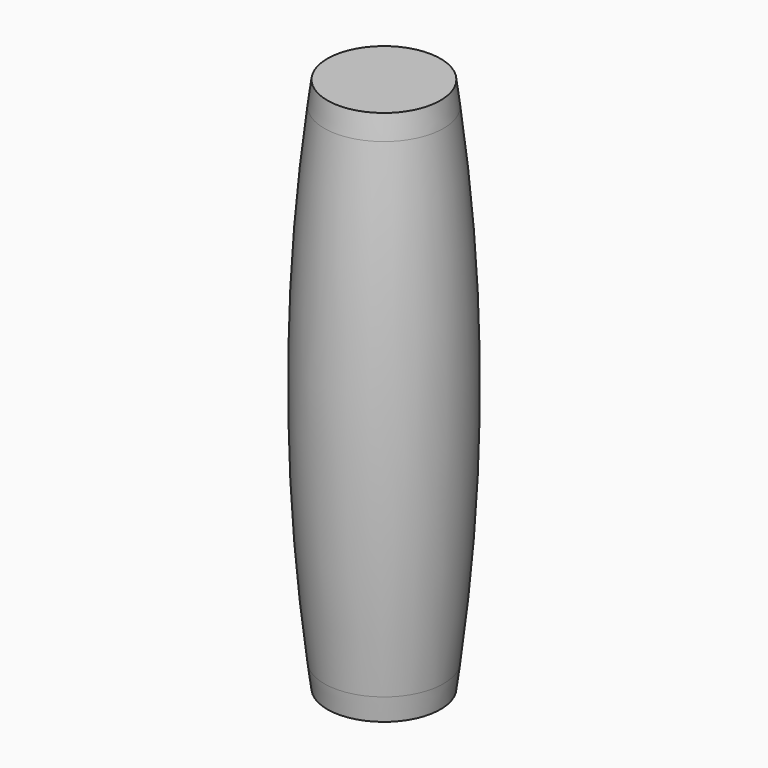
from build123d import *


with BuildPart() as f1:
    # F0 (on Front) → F1 (revolve)
    with BuildSketch(Plane.XZ):
        with BuildLine():
            Line((-6.8, 41.039646), (-10.020737, 41.039646))
            ThreePointArc((-10.020737, 41.039646), (-12.582579, 0), (-10.020737, -41.039646))
            Line((-10.020737, -41.039646), (-6.8, -41.039646))
            Line((-6.8, -41.039646), (-6.8, -31.647503))
            Line((-6.8, -31.647503), (-9.890868, -26.114616))
            ThreePointArc((-9.890868, -26.114616), (-11.156749, 0), (-9.890868, 26.114616))
            Line((-9.890868, 26.114616), (-6.8, 31.647503))
            Line((-6.8, 31.647503), (-6.8, 41.039646))
        make_face()
    revolve(axis=Axis((0, 0, 38.323751), (0, 0, 1)))


with BuildPart() as f2:
    # F0 (on Front) → F2 (revolve)
    with BuildSketch(Plane.XZ):
        with BuildLine():
            Line((0, 31.647503), (0, 45))
            Line((0, 45), (-9.5, 45))
            ThreePointArc((-9.5, 45), (-9.766361, 43.020611), (-10.020737, 41.039646))
            Line((-10.020737, 41.039646), (-6.8, 41.039646))
            Line((-6.8, 41.039646), (-6.8, 31.647503))
            Line((-6.8, 31.647503), (0, 31.647503))
        make_face()
    revolve(axis=Axis((0, 0, 38.323751), (0, 0, 1)))


with BuildPart() as f3_1:
    # F3: instance of F2
    add(f2.part.mirror(Plane.XY))


solid = Compound([f1.part, f2.part, f3_1.part])
